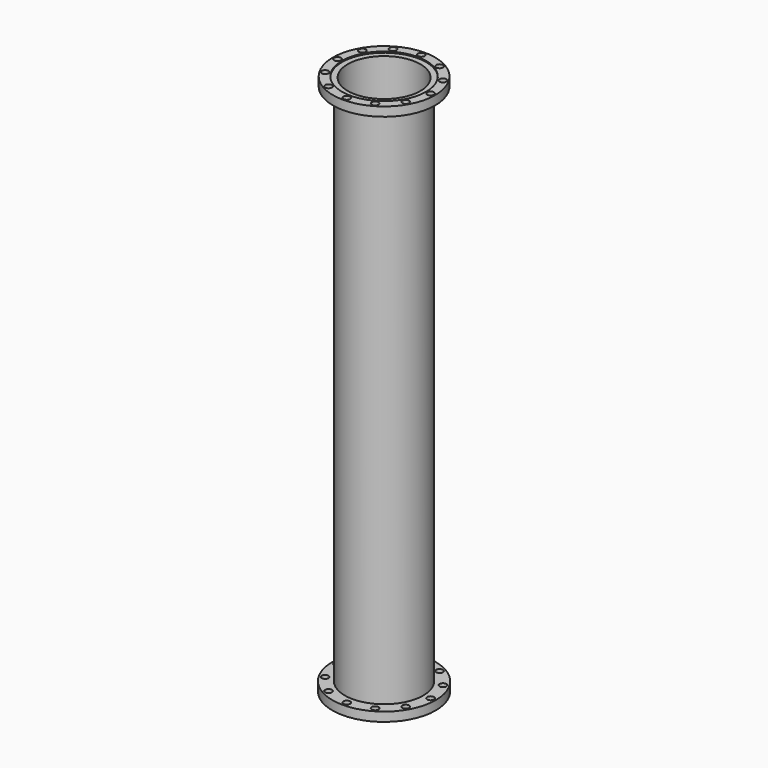
from build123d import *

# Parameters (mm, degrees)
F2_R     = 9.525
F3_DEPTH = 1514.476


with BuildPart() as f1:
    # F0 (on Front) → F1 (revolve)
    with BuildSketch(Plane.XZ):
        Polygon((109.601, 15.875), (109.601, 0), (142.875, 0), (142.875, 25.4), (117.475, 25.4), (117.475, 22.225), (101.6, 22.225), (101.6, 15.875), align=None)
        Polygon((109.601, -1463.675), (109.601, 0), (109.601, 15.875), (101.6, 15.875), (101.6, -1479.55), (109.601, -1479.55), align=None)
        Polygon((144.526, -1463.675), (109.601, -1463.675), (109.601, -1479.55), (101.6, -1479.55), (101.6, -1485.9), (119.126, -1485.9), (119.126, -1489.075), (144.526, -1489.075), align=None)
    revolve(axis=Axis((0, 0, 9.743357), (0, 0, -1)))

    # F2 (on face) → F3 (cut, through all)
    with BuildSketch(Plane.XY.offset(25.4)):
        with Locations((130.175, 0)):
            Circle(F2_R)
        with Locations((112.734857, 65.0875)):
            Circle(F2_R)
        with Locations((65.0875, 112.734857)):
            Circle(F2_R)
        with Locations((0, 130.175)):
            Circle(F2_R)
        with Locations((-65.0875, 112.734857)):
            Circle(F2_R)
        with Locations((-112.734857, 65.0875)):
            Circle(F2_R)
        with Locations((-130.175, 0)):
            Circle(F2_R)
        with Locations((-112.734857, -65.0875)):
            Circle(F2_R)
        with Locations((-65.0875, -112.734857)):
            Circle(F2_R)
        with Locations((0, -130.175)):
            Circle(F2_R)
        with Locations((65.0875, -112.734857)):
            Circle(F2_R)
        with Locations((112.734857, -65.0875)):
            Circle(F2_R)
    extrude(amount=-F3_DEPTH, mode=Mode.SUBTRACT)


solid = f1.part
